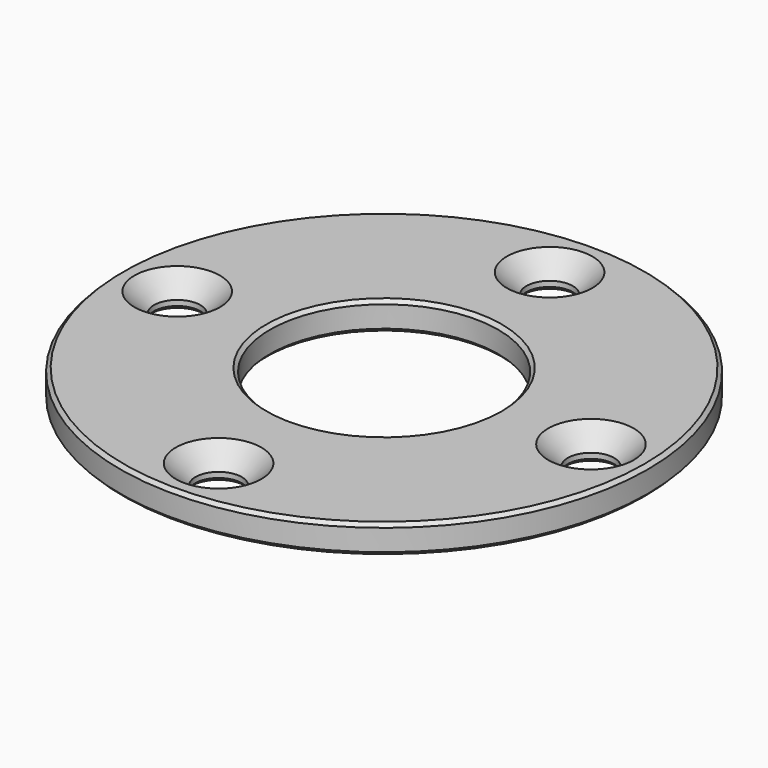
from build123d import *

# Parameters (mm, degrees)
F0_R     = 37
F0_R_2   = 3.25
F0_R_3   = 16
F1_DEPTH = 4
F2_SIZE  = 2.75
F3_SIZE  = 0.5


with BuildPart() as f1:
    # F0 (on Top) → F1 (new body)
    with BuildSketch(Plane.XY):
        Circle(F0_R)
        with Locations((0, -29)):
            Circle(F0_R_2, mode=Mode.SUBTRACT)
        with Locations((-29, 0)):
            Circle(F0_R_2, mode=Mode.SUBTRACT)
        Circle(F0_R_3, mode=Mode.SUBTRACT)
        with Locations((29, 0)):
            Circle(F0_R_2, mode=Mode.SUBTRACT)
        with Locations((0, 29)):
            Circle(F0_R_2, mode=Mode.SUBTRACT)
    extrude(amount=F1_DEPTH)

    # F2
    f2_edges = [f1.edges().sort_by_distance(p)[0] for p in [
        (-3.25, -29, 4),
        (-32.25, 0, 4),
        (-3.25, 29, 4),
        (25.75, 0, 4),
    ]]
    chamfer(f2_edges, length=F2_SIZE)

    # F3
    f3_edges = [f1.edges().sort_by_distance(p)[0] for p in [
        (16, 0, 2),
        (-16, 0, 0),
        (-16, 0, 4),
        (37, 0, 2),
        (-37, 0, 0),
        (-37, 0, 4),
        (-3.25, -29, 0),
        (-32.25, 0, 0),
        (25.75, 0, 0),
        (-3.25, 29, 0),
    ]]
    chamfer(f3_edges, length=F3_SIZE)


solid = f1.part
